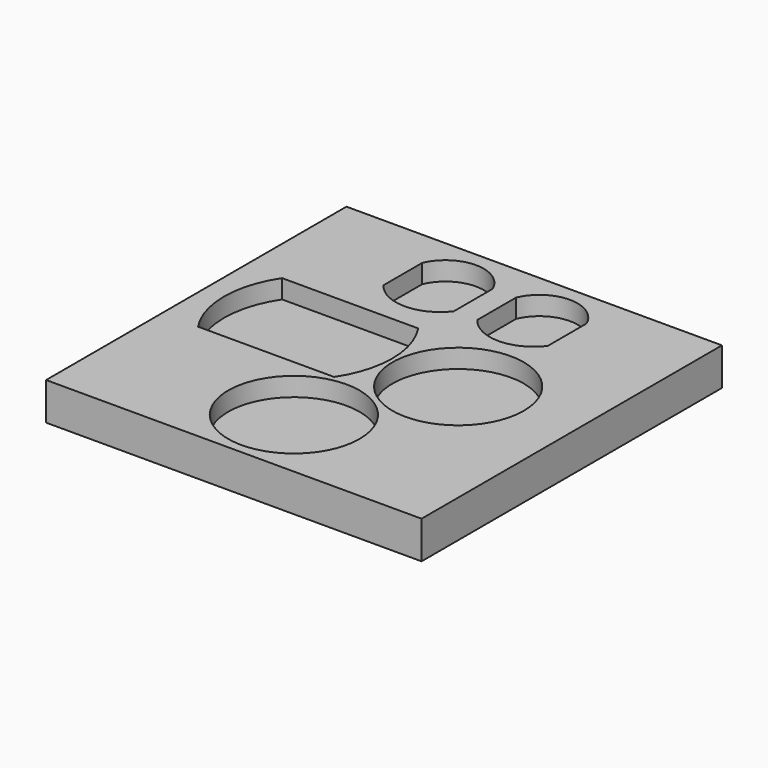
from build123d import *

# Parameters (mm, degrees)
F0_W     = 101.6
F0_H     = 101.6
F1_DEPTH = 10.16
F2_R     = 17.78
F3_DEPTH = 5.08


with BuildPart() as f1:
    # F0 (on Top) → F1 (new body)
    with BuildSketch(Plane.XY):
        Rectangle(F0_W, F0_H)
    extrude(amount=F1_DEPTH)

    # F2 (on face) → F3 (cut)
    with BuildSketch(Plane.XY.offset(10.16)):
        with Locations((0, -30.48)):
            Circle(F2_R)
        with Locations((19.05, 1.27)):
            Circle(F2_R)
        with BuildLine():
            Line((-4.152387, 16.764), (-40.982387, 16.764))
            ThreePointArc((-40.982387, 16.764), (-45.304819, 2.54), (-40.982387, -11.684))
            Line((-40.982387, -11.684), (-4.152387, -11.684))
            ThreePointArc((-4.152387, -11.684), (0.169185, 2.54), (-4.152387, 16.764))
        make_face()
        with BuildLine():
            Line((3.175, 40.712096), (3.175, 27.579732))
            ThreePointArc((3.175, 27.579732), (12.7, 22.845824), (22.225, 27.579732))
            Line((22.225, 27.579732), (22.225, 40.712096))
            ThreePointArc((22.225, 40.712096), (12.7, 47.020653), (3.175, 40.712096))
        make_face()
        with BuildLine():
            Line((-22.225, 40.712096), (-22.225, 27.579732))
            ThreePointArc((-22.225, 27.579732), (-12.7, 22.861564), (-3.175, 27.579732))
            Line((-3.175, 27.579732), (-3.175, 40.712096))
            ThreePointArc((-3.175, 40.712096), (-12.7, 47.008859), (-22.225, 40.712096))
        make_face()
    extrude(amount=-F3_DEPTH, mode=Mode.SUBTRACT)


solid = f1.part
